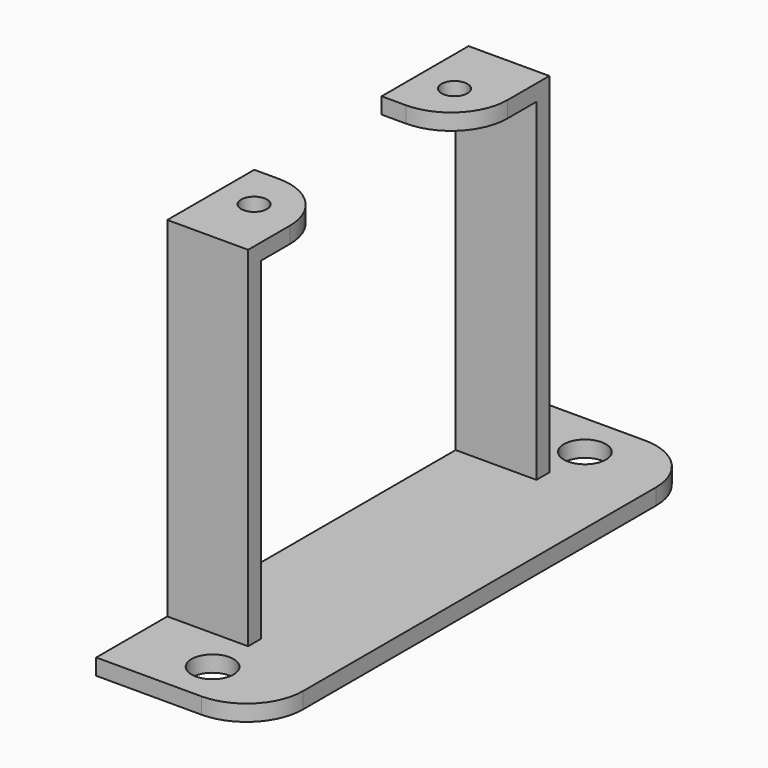
from build123d import *

# Parameters (mm, degrees)
F0_W     = 10
F0_H     = 42.6
F1_DEPTH = 2
F0_H_2   = 2
F2_DEPTH = 43.2
F3_W     = 10
F3_H     = 2
F3_H_2   = 13.45
F3_H_3   = 11.45
F4_DEPTH = 2
F5_D     = 3.2
F5_DEPTH = 2.001
F6_D     = 5.2
F7_R     = 7


with BuildPart() as f1:
    # F0 (on Top) → F1 (new body)
    with BuildSketch(Plane.XY):
        with Locations((-61.0561398208, -14.4174070306)):
            Rectangle(F0_W, F0_H)
        Polygon((-61.0561398208, -48.7174070306), (-51.0561398208, -48.7174070306), (-51.0561398208, -37.7174070306), (-56.0561398208, -37.7174070306), (-66.0561398208, -37.7174070306), (-66.0561398208, -48.7174070306), align=None)
        Polygon((-51.0561398208, 19.8825929694), (-61.0561398208, 19.8825929694), (-66.0561398208, 19.8825929694), (-66.0561398208, 8.8825929694), (-56.0561398208, 8.8825929694), (-51.0561398208, 8.8825929694), align=None)
        Polygon((-46.0561398208, 19.8825929694), (-51.0561398208, 19.8825929694), (-51.0561398208, 8.8825929694), (-56.0561398208, 8.8825929694), (-56.0561398208, 6.8825929694), (-56.0561398208, -35.7174070306), (-56.0561398208, -37.7174070306), (-51.0561398208, -37.7174070306), (-51.0561398208, -48.7174070306), (-46.0561398208, -48.7174070306), align=None)
    extrude(amount=F1_DEPTH)

    # F0 (on Top) → F2 (join)
    with BuildSketch(Plane.XY):
        with Locations((-61.0561398208, -36.7174070306)):
            Rectangle(F0_W, F0_H_2)
        with Locations((-61.0561398208, 7.8825929694)):
            Rectangle(F0_W, F0_H_2)
    extrude(amount=F2_DEPTH)

    # F3 (on face) → F4 (join)
    with BuildSketch(Plane.XY.offset(43.2)):
        with Locations((-61.0561398208, -36.7174070306)):
            Rectangle(F3_W, F3_H)
        with Locations((-61.0561398208, 2.1575929694)):
            Rectangle(F3_W, F3_H_2)
        with Locations((-61.0561398208, -29.9924070306)):
            Rectangle(F3_W, F3_H_3)
    extrude(amount=F4_DEPTH)

    # F5 (through all, one way)
    with BuildSketch(Plane(origin=(0, 0, 43.2), x_dir=(1, 0, 0), z_dir=(0, 0, -1))):
        with Locations((-61.5561398208, -1.0825929694), (-61.5561398208, 29.9174070306)):
            Circle(F5_D / 2)
    extrude(amount=-F5_DEPTH, mode=Mode.SUBTRACT)

    # F6 (through all)
    with Locations(Plane(origin=(0, 0, 0), x_dir=(1, 0, 0), z_dir=(0, 0, -1))):
        with Locations((-56.0561398208, -14.3825929694), (-56.0561398208, 43.2174070306)):
            Hole(F6_D / 2)

    # F7
    f7_edges = [f1.edges().sort_by_distance(p)[0] for p in [
        (-56.05614, -4.567407, 44.2),
        (-56.05614, -24.267407, 44.2),
        (-46.05614, 19.882593, 1),
        (-46.05614, -48.717407, 1),
    ]]
    fillet(f7_edges, radius=F7_R)


solid = f1.part
